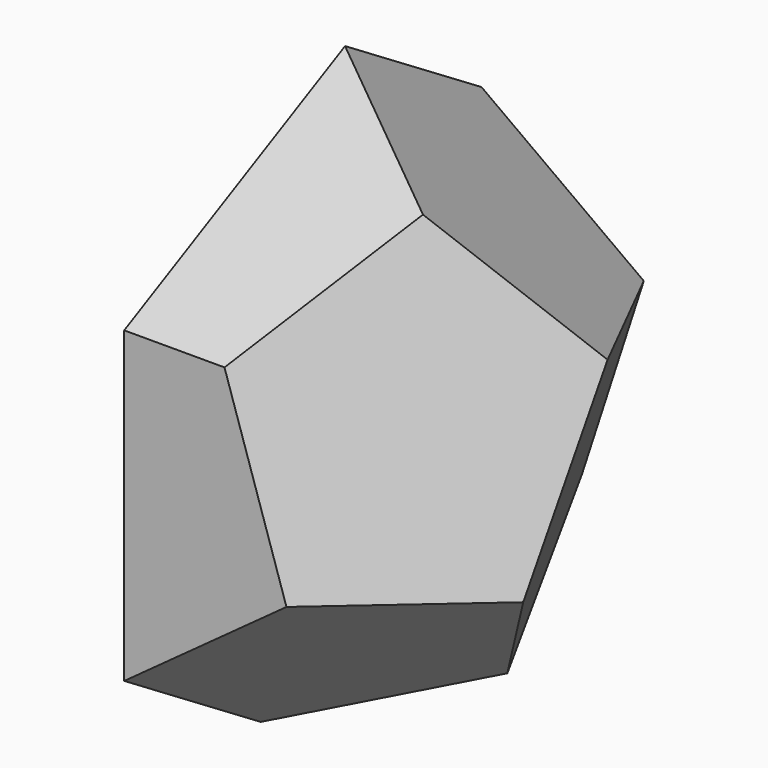
from build123d import *

# Parameters (mm, degrees)
F3_ANGLE = 180
F8_DEPTH = 869.6470786003
F9_T     = -6.35


with BuildPart() as f2:
    # F0 (on Front) → F2 section 0
    with BuildSketch(Plane.XZ, mode=Mode.PRIVATE) as f2_s0:
        Polygon((0, -1479.5302793129), (1407.1169131965, -457.2), (869.6460785003, 1196.9651396565), (-869.6460785003, 1196.9651396565), (-1258.5636280788, 0), (-1407.1169131965, -457.2), align=None)
    loft([f2_s0.sketch, Vertex(0, -2393.9302793129, 0)])


with BuildPart() as f3_1:
    # F3: copy of F2
    add(f2.part.rotate(Axis((98.339766264, -739.7651396565, 0), (1, 0, 0)), F3_ANGLE))


with BuildPart() as f2_1:
    add(f2.part)

    # F4: intersect F3_1
    add(f3_1.part, mode=Mode.INTERSECT)

    # F7 (on 3pt) → F8 (cut, through all)
    with BuildSketch(Plane(origin=(0, 0, 0), x_dir=(0, -1, 0), z_dir=(-1, 0, 0))):
        Polygon((1784.3302793129, 645.576759771), (549.4445933651, 1263.0196027449), (-304.8, 735.0674093394), (-304.8, -441.1666341224), (904.9484231668, -1278.5552855277), (1784.3302793129, -735.0674093394), align=None)
        Polygon((0, 565.1302793129), (565.1302793129, 914.4), (1479.5302793129, 457.2), (1479.5302793129, -565.1302793129), (914.4, -914.4), (0, -281.4517206871), align=None, mode=Mode.SUBTRACT)
        Polygon((1479.5302793129, 457.2), (565.1302793129, 914.4), (0, 565.1302793129), (0, -281.4517206871), (914.4, -914.4), (1479.5302793129, -565.1302793129), align=None)
    extrude(amount=F8_DEPTH, mode=Mode.SUBTRACT)

    # F9
    f9_openings = [f2_1.faces().sort_by_distance(p)[0] for p in [
        (0, -739.76514, 0),
    ]]
    offset(amount=F9_T, openings=f9_openings)


solid = f2_1.part
